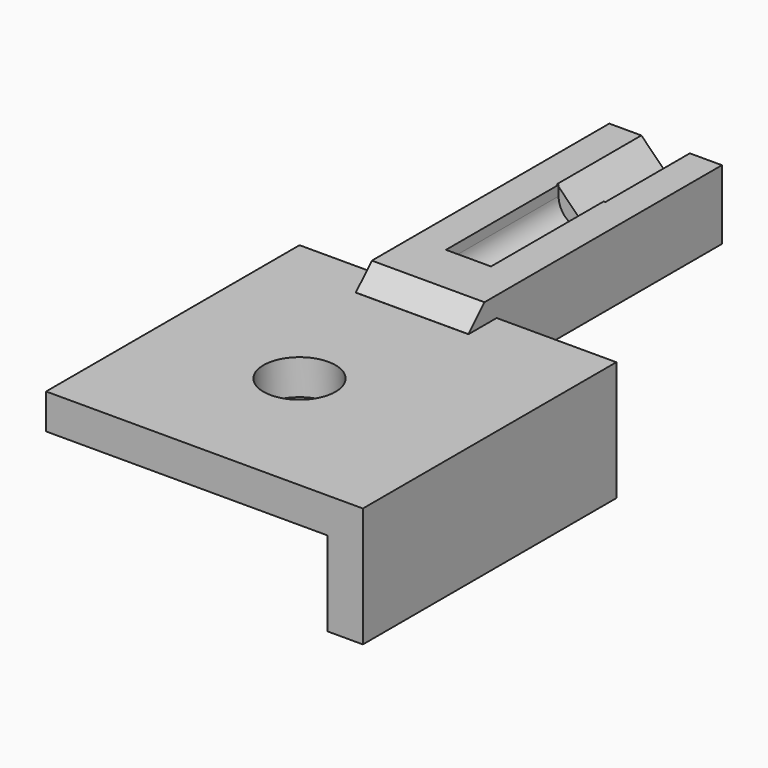
from build123d import *

# Parameters (mm, degrees)
SKETCH020_W             = 25.4
SKETCH020_H             = 3.175
PAD005_DEPTH            = 25.4
SKETCH001_W             = 28.575
SKETCH001_H             = 10.16
PAD006_DEPTH            = 1.81
PAD006_DEPTH_BACK       = 4.445
POCKET004_DEPTH         = 9.525
POCKET005_DEPTH         = 12.7
CHAMFER_SIZE            = 1.8034
SKETCH023_R             = 3.2512
POCKET006_DEPTH         = 4.446
PAD007_DEPTH            = 10.795
FILLET_R                = 5.08
BODY003_ROLL_ANGLE      = 90
BODY003_PLACEMENT_ANGLE = 90


with BuildPart() as part:
    # Sketch020 → Pad005 (new body)
    with BuildSketch(Plane.XY):
        with Locations((-12.7, 1.5875)):
            Rectangle(SKETCH020_W, SKETCH020_H)
    extrude(amount=PAD005_DEPTH)

    # Sketch001 (on Face1 of Pad005) → Pad006 (join, two sides)
    with BuildSketch(Plane(origin=(0, 3.175, 0), x_dir=(-1, 0, 0), z_dir=(0, 1, 0))) as pad006_sk:
        with Locations((-14.2875, 12.7)):
            Rectangle(SKETCH001_W, SKETCH001_H)
    extrude(amount=PAD006_DEPTH)
    extrude(pad006_sk.sketch, amount=-PAD006_DEPTH_BACK)

    # Sketch021 (on Face13 of Pad006) → Pocket004 (cut)
    with BuildSketch(Plane.YZ.offset(28.575)):
        Polygon((9.150137, 19.05), (2.800137, 12.7), (9.150137, 6.35), align=None)
    extrude(amount=-POCKET004_DEPTH, mode=Mode.SUBTRACT)

    # Sketch022 (on Face16 of Pocket004) → Pocket005 (cut)
    with BuildSketch(Plane.YZ.offset(19.05)):
        with BuildLine():
            ThreePointArc((4.08, 14.732), (2.048, 12.7), (4.08, 10.668))
            Line((4.985, 10.668), (4.08, 10.668))
            Line((4.985, 14.732), (4.985, 10.668))
            Line((4.08, 14.732), (4.985, 14.732))
        make_face()
    extrude(amount=-POCKET005_DEPTH, mode=Mode.SUBTRACT)

    # Chamfer
    chamfer_edges = [part.edges().sort_by_distance(p)[0] for p in [
        (0, 4.985, 12.7),
    ]]
    chamfer(chamfer_edges, length=CHAMFER_SIZE)

    # Sketch023 (on Face4 of Chamfer) → Pocket006 (cut, through all)
    with BuildSketch(Plane(origin=(0, 3.175, 0), x_dir=(-1, 0, 0), z_dir=(0, 1, 0))):
        with Locations((12.7, 12.7)):
            Circle(SKETCH023_R)
    extrude(amount=-POCKET006_DEPTH, mode=Mode.SUBTRACT)

    # Sketch024 (on Face4 of Pocket006) → Pad007 (join)
    with BuildSketch(Plane(origin=(0, 3.175, 0), x_dir=(-1, 0, 0), z_dir=(0, 1, 0))):
        Polygon((0, 0), (-3.175, 0), (-3.175, 28.575), (25.4, 28.575), (25.4, 25.4), (0, 25.4), align=None)
    extrude(amount=-PAD007_DEPTH)

    # Fillet
    fillet_edges = [part.edges().sort_by_distance(p)[0] for p in [
        (3.175, -1.27, 12.7),
    ]]
    fillet(fillet_edges, radius=FILLET_R)


with BuildPart() as part_1:
    # Body003 roll: moved
    add(part.part.rotate(Axis((0, 0, 0), (1, 0, 0)), BODY003_ROLL_ANGLE))


with BuildPart() as part_2:
    # Body003 placement: moved
    add(part_1.part.moved(Location((-58.73, -42.01, 0))).rotate(Axis((-58.73, -42.01, 0), (0, 0, 1)), BODY003_PLACEMENT_ANGLE))


solid = part_2.part
